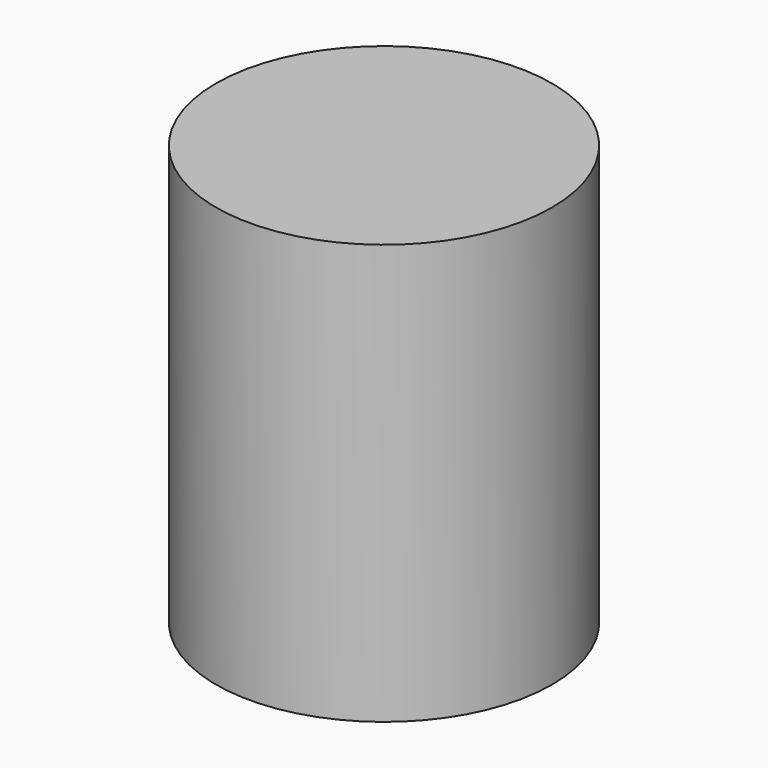
from build123d import *

# Parameters (mm, degrees)
F0_R     = 10
F1_DEPTH = 25
F2_R     = 3
F3_DEPTH = 25


with BuildPart() as f1:
    # F0 (on Top) → F1 (new body)
    with BuildSketch(Plane.XY):
        Circle(F0_R)
    extrude(amount=F1_DEPTH)

    # F2 (on Front) → F3 (cut)
    with BuildSketch(Plane.XZ):
        with Locations((0, 12.5)):
            Circle(F2_R)
    extrude(amount=-F3_DEPTH, mode=Mode.SUBTRACT)


solid = f1.part
